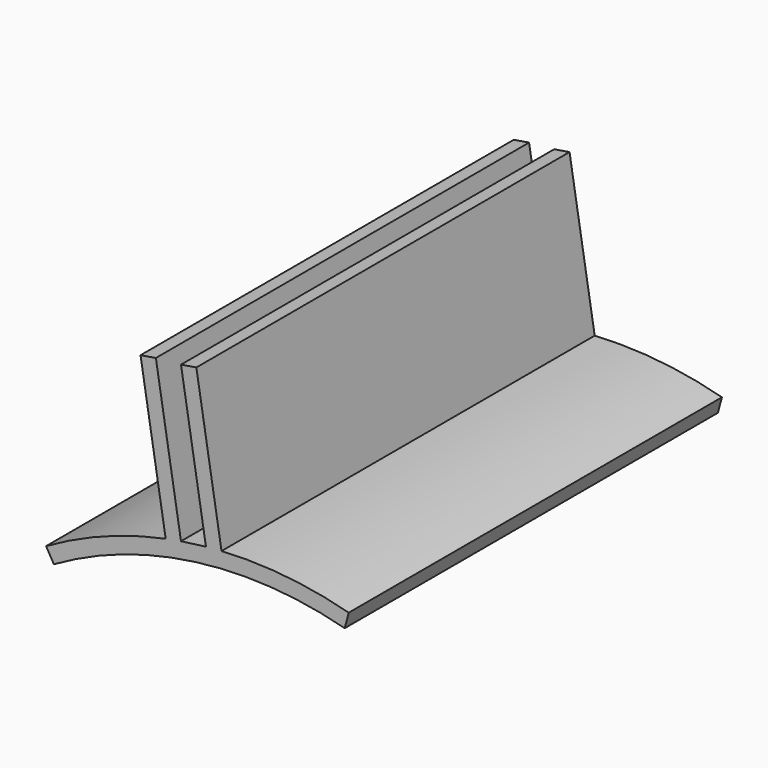
from build123d import *

# Parameters (mm, degrees)
F1_DEPTH = 60


with BuildPart() as f1:
    # F0 (on Front) → F1 (new body)
    with BuildSketch(Plane.XZ):
        with BuildLine():
            ThreePointArc((-6.434941, 48.878232), (3.224374, 49.194445), (12.759779, 47.620143))
            Line((12.759779, 47.620143), (13.277417, 49.551995))
            ThreePointArc((13.277417, 49.551995), (5.162454, 51.039583), (-3.086029, 51.207094))
            ThreePointArc((-3.086029, 51.207094), (-4.087053, 51.136934), (-5.086513, 51.047207))
            Line((-5.086513, 51.047207), (-6.692654, 50.835755))
            Line((-6.692654, 50.835755), (-6.434941, 48.878232))
        make_face()
        with BuildLine():
            Line((-13.50154, 69.998845), (-10.266143, 50.262275))
            ThreePointArc((-10.266143, 50.262275), (-9.284233, 50.452879), (-8.298795, 50.624303))
            Line((-8.298795, 50.624303), (-11.527883, 70.322385))
            Line((-11.527883, 70.322385), (-13.50154, 69.998845))
        make_face()
        with BuildLine():
            ThreePointArc((-5.086513, 51.047207), (-4.087053, 51.136934), (-3.086029, 51.207094))
            Line((-3.086029, 51.207094), (-6.321426, 70.943664))
            Line((-6.321426, 70.943664), (-8.295083, 70.620124))
            Line((-8.295083, 70.620124), (-5.086513, 51.047207))
        make_face()
        with BuildLine():
            Line((-25.65, 44.427103), (-24.65, 42.695052))
            ThreePointArc((-24.65, 42.695052), (-15.846966, 46.683655), (-6.434941, 48.878232))
            Line((-6.434941, 48.878232), (-6.692654, 50.835755))
            Line((-6.692654, 50.835755), (-8.298795, 50.624303))
            ThreePointArc((-8.298795, 50.624303), (-9.284233, 50.452879), (-10.266143, 50.262275))
            ThreePointArc((-10.266143, 50.262275), (-18.193533, 47.96546), (-25.65, 44.427103))
        make_face()
    extrude(amount=F1_DEPTH)


solid = f1.part
